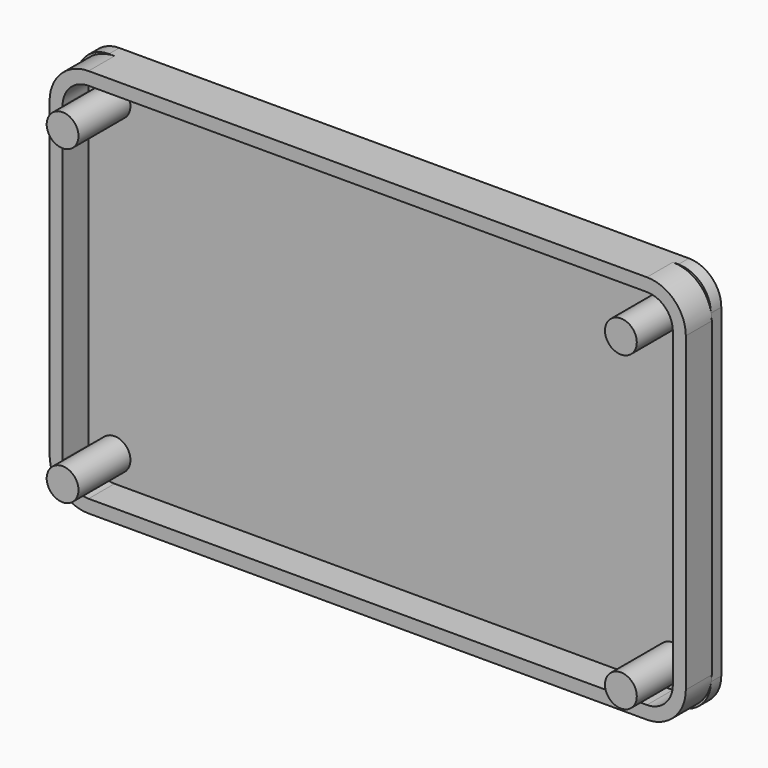
from build123d import *

# Parameters (mm, degrees)
F1_R     = 2.45
F2_DEPTH = 10
F3_DEPTH = 5
F5_DEPTH = 2


with BuildPart() as f2:
    # F1 (on Front) → F2 (new body)
    with BuildSketch(Plane.XZ):
        with Locations((-43, 24)):
            Circle(F1_R)
        with Locations((-43, -24)):
            Circle(F1_R)
        with Locations((43, -24)):
            Circle(F1_R)
        with Locations((43, 24)):
            Circle(F1_R)
    extrude(amount=F2_DEPTH)



with BuildPart() as f3:
    # F0 (on Front) → F3 (new body)
    with BuildSketch(Plane.XZ):
        with BuildLine():
            ThreePointArc((49, 24), (47.242641, 28.242641), (43, 30))
            Line((43, 30), (-43, 30))
            ThreePointArc((-43, 30), (-47.242641, 28.242641), (-49, 24))
            Line((-49, 24), (-49, -24))
            ThreePointArc((-49, -24), (-47.242641, -28.242641), (-43, -30))
            Line((-43, -30), (43, -30))
            ThreePointArc((43, -30), (47.242641, -28.242641), (49, -24))
            Line((49, -24), (49, 24))
        make_face()
        with BuildLine():
            ThreePointArc((47, -24), (45.828427, -26.828427), (43, -28))
            Line((43, -28), (-43, -28))
            ThreePointArc((-43, -28), (-45.828427, -26.828427), (-47, -24))
            Line((-47, -24), (-47, 24))
            ThreePointArc((-47, 24), (-45.828427, 26.828427), (-43, 28))
            Line((-43, 28), (43, 28))
            ThreePointArc((43, 28), (45.828427, 26.828427), (47, 24))
            Line((47, 24), (47, -24))
        make_face(mode=Mode.SUBTRACT)
    extrude(amount=F3_DEPTH)


with BuildPart() as f2_1:
    add(f2.part)

    add(f3.part)  # F5 merges F3
    # F4 (on face) → F5 (join)
    with BuildSketch(Plane(origin=(0, 0, 0), x_dir=(-1, 0, 0), z_dir=(0, 1, 0))):
        with BuildLine():
            Line((43.864976, 30), (-43.864976, 30))
            ThreePointArc((-43.864976, 30), (-47.400509, 28.535534), (-48.864976, 25))
            Line((-48.864976, 25), (-48.864976, -25))
            ThreePointArc((-48.864976, -25), (-47.400509, -28.535534), (-43.864976, -30))
            Line((-43.864976, -30), (43.864976, -30))
            ThreePointArc((43.864976, -30), (47.400509, -28.535534), (48.864976, -25))
            Line((48.864976, -25), (48.864976, 25))
            ThreePointArc((48.864976, 25), (47.400509, 28.535534), (43.864976, 30))
        make_face()
    extrude(amount=F5_DEPTH)


solid = f2_1.part
